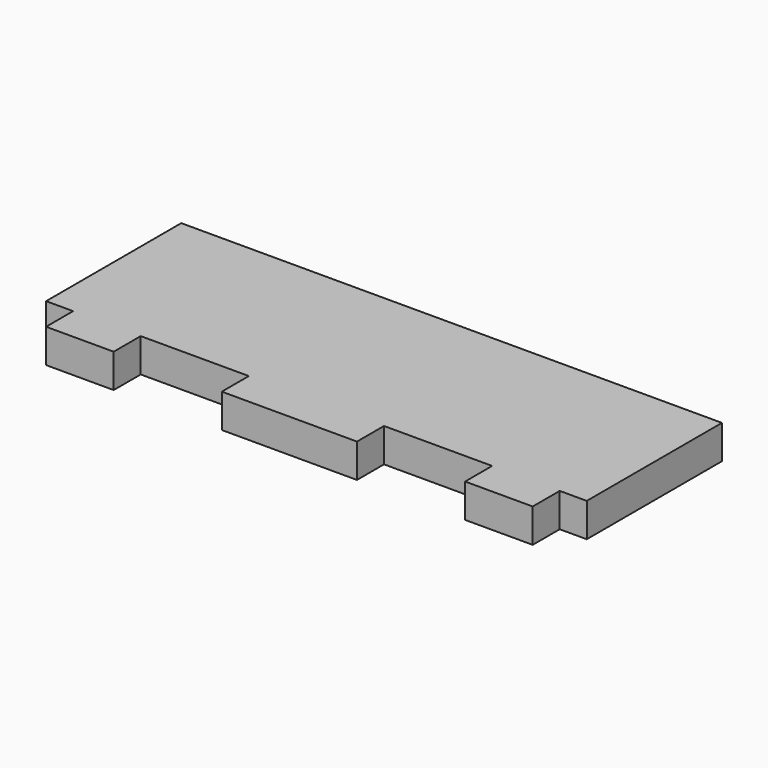
from build123d import *

# Parameters (mm, degrees)
F1_DEPTH = 5


with BuildPart() as f1:
    # F0 (on Top) → F1 (new body)
    with BuildSketch(Plane.XY):
        Polygon((36, -12.5), (40, -12.5), (40, 12.5), (-40, 12.5), (-40, -12.5), (-36, -12.5), (-36, -17.5), (-26, -17.5), (-26, -12.5), (-10, -12.5), (-10, -17.5), (10, -17.5), (10, -12.5), (26, -12.5), (26, -17.5), (36, -17.5), align=None)
    extrude(amount=F1_DEPTH)


solid = f1.part
